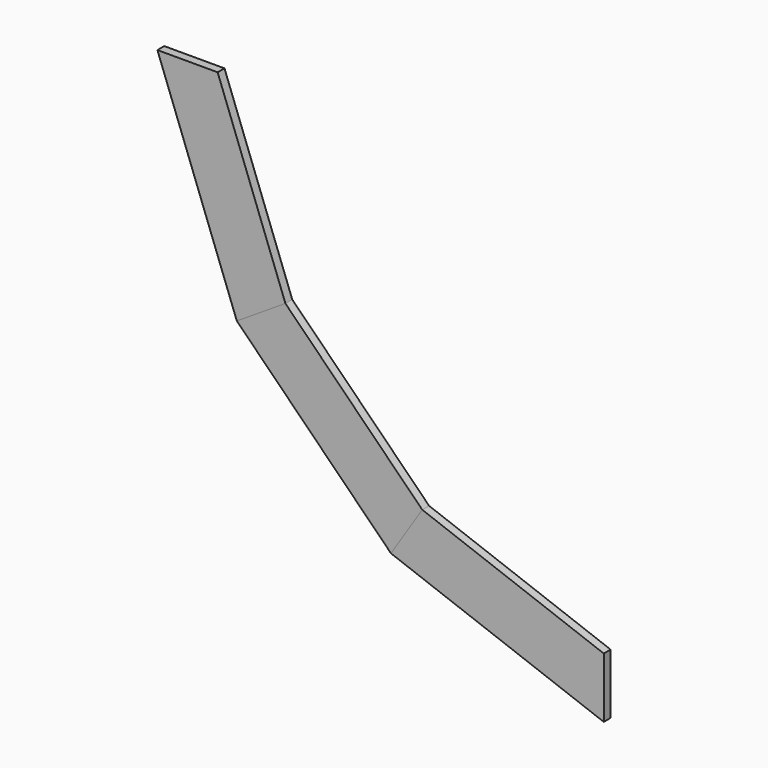
from build123d import *

# Parameters (mm, degrees)
F1_DEPTH = 26.9875
F2_DEPTH = 26.9875


with BuildPart() as f1:
    # F0 (on Front) → F1 (new body)
    with BuildSketch(Plane.XZ):
        with BuildLine():
            Line((58.678790709, 1275.1963691918), (51.058790709, 1275.1963691918))
            ThreePointArc((51.058790709, 1275.1963691918), (117.8340490666, 971.2397850446), (251.400154971, 690.1550370971))
            Line((251.400154971, 690.1550370971), (272.1626140884, 703.4892466131))
            Line((272.1626140884, 703.4892466131), (58.678790709, 1275.1963691918))
        make_face()
        with BuildLine():
            Line((51.058790709, 1275.1963691918), (0, 1275.1963691918))
            ThreePointArc((0, 1275.1963691918), (69.0407381145, 956.9284740421), (208.6522133677, 662.7011595724))
            Line((208.6522133677, 662.7011595725), (251.400154971, 690.1550370971))
            ThreePointArc((251.400154971, 690.1550370971), (117.8340490666, 971.2397850446), (51.058790709, 1275.1963691918))
        make_face()
        with BuildLine():
            ThreePointArc((208.6522133677, 662.7011595724), (69.0407381145, 956.9284740421), (0, 1275.1963691918))
            Line((0, 1275.1963691918), (-63.7984330513, 1275.1963691918))
            ThreePointArc((-63.7984330513, 1275.1963691918), (8.0539380569, 939.0396818826), (155.2176541578, 628.3840488741))
            Line((155.2176541578, 628.3840488741), (208.6522133677, 662.7011595725))
        make_face()
        with BuildLine():
            ThreePointArc((155.2176541578, 628.3840488741), (8.0539380569, 939.0396818826), (-63.7984330513, 1275.1963691918))
            Line((-63.7984330513, 1275.1963691918), (-131.1129039445, 1275.1963691918))
            Line((-131.1129039445, 1275.1963691918), (119.0821964714, 605.1768863206))
            Line((119.0821964714, 605.1768863206), (155.2176541578, 628.3840488741))
        make_face()
    extrude(amount=F1_DEPTH)


with BuildPart() as f1b:
    # F0 (on Front) → F1, piece 2 (new body)
    with BuildSketch(Plane.XZ):
        with BuildLine():
            Line((703.2559501702, 271.5368042797), (690.2663237408, 251.3308140456))
            ThreePointArc((690.2663237409, 251.3308140456), (971.3018104773, 117.8128107534), (1275.1963691918, 51.058790709))
            Line((1275.1963691918, 51.058790709), (1275.1963691918, 58.678790709))
            Line((1275.1963691918, 58.678790709), (703.2559501702, 271.5368042797))
        make_face()
        with BuildLine():
            Line((690.2663237408, 251.3308140456), (662.793087873, 208.5948709711))
            ThreePointArc((662.793087873, 208.5948709711), (956.9797538154, 69.0232702705), (1275.1963691918, 0))
            Line((1275.1963691918, 0), (1275.1963691918, 51.058790709))
            ThreePointArc((1275.1963691918, 51.058790709), (971.3018104773, 117.8128107534), (690.2663237409, 251.3308140456))
        make_face()
        with BuildLine():
            ThreePointArc((1275.1963691918, 0), (956.9797538154, 69.0232702705), (662.793087873, 208.5948709711))
            Line((662.793087873, 208.5948709711), (628.4517986621, 155.1753397633))
            ThreePointArc((628.4517986621, 155.1753397633), (939.0775113648, 8.0411292429), (1275.1963691918, -63.7984330513))
            Line((1275.1963691918, -63.7984330513), (1275.1963691918, 0))
        make_face()
        with BuildLine():
            ThreePointArc((1275.1963691918, -63.7984330513), (939.0775113648, 8.0411292429), (628.4517986621, 155.1753397633))
            Line((628.4517986621, 155.1753397633), (604.8419510012, 118.4490833264))
            Line((604.8419510012, 118.4490833264), (1275.1963691918, -131.0354872665))
            Line((1275.1963691918, -131.0354872665), (1275.1963691918, -63.7984330513))
        make_face()
    extrude(amount=F1_DEPTH)


with BuildPart() as f2:
    # F0 (on Front) → F2 (new body)
    with BuildSketch(Plane.XZ):
        with BuildLine():
            Line((272.1626140884, 703.4892466131), (251.400154971, 690.1550370971))
            ThreePointArc((251.400154971, 690.1550370971), (445.6915696116, 445.5988526201), (690.2663237409, 251.3308140456))
            Line((690.2663237408, 251.3308140456), (703.2559501702, 271.5368042797))
            Line((703.2559501702, 271.5368042797), (272.1626140884, 703.4892466131))
        make_face()
        with BuildLine():
            Line((251.400154971, 690.1550370971), (208.6522133677, 662.7011595725))
            ThreePointArc((208.6522133677, 662.7011595724), (409.7624925237, 409.6858799826), (662.793087873, 208.5948709711))
            Line((662.793087873, 208.5948709711), (690.2663237408, 251.3308140456))
            ThreePointArc((690.2663237409, 251.3308140456), (445.6915696116, 445.5988526201), (251.400154971, 690.1550370971))
        make_face()
        with BuildLine():
            ThreePointArc((662.793087873, 208.5948709711), (409.7624925237, 409.6858799826), (208.6522133677, 662.7011595724))
            Line((208.6522133677, 662.7011595725), (155.2176541578, 628.3840488741))
            ThreePointArc((155.2176541578, 628.3840488741), (364.8511465394, 364.7946640565), (628.4517986621, 155.1753397633))
            Line((628.4517986621, 155.1753397633), (662.793087873, 208.5948709711))
        make_face()
        with BuildLine():
            ThreePointArc((628.4517986621, 155.1753397633), (364.8511465394, 364.7946640565), (155.2176541578, 628.3840488741))
            Line((155.2176541578, 628.3840488741), (119.0821964714, 605.1768863206))
            Line((119.0821964714, 605.1768863206), (604.8419510012, 118.4490833264))
            Line((604.8419510012, 118.4490833264), (628.4517986621, 155.1753397633))
        make_face()
    extrude(amount=F2_DEPTH)


solid = Compound([f1.part, f1b.part, f2.part])
